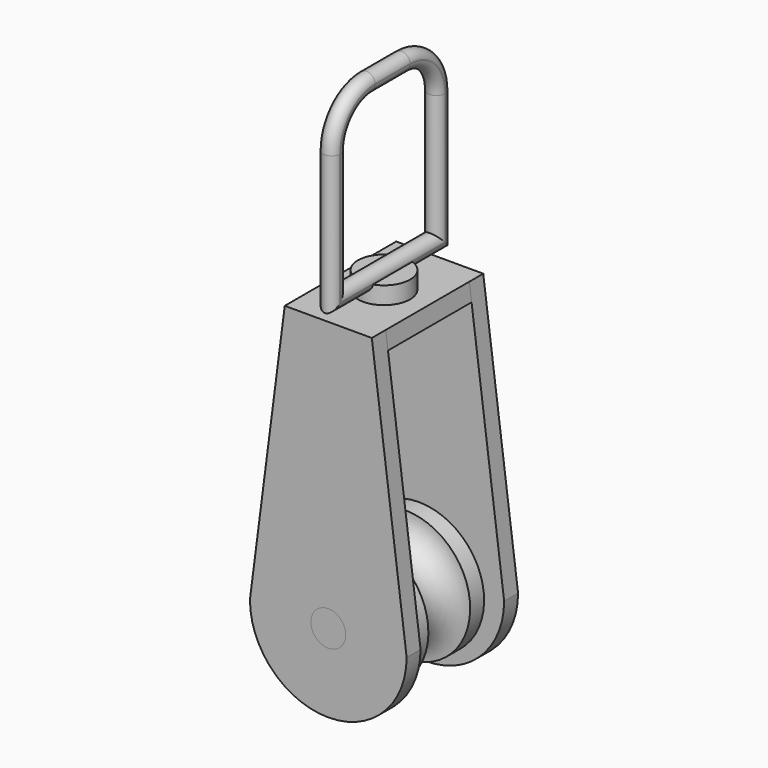
from build123d import *

# Parameters (mm, degrees)
F2_R           = 2
F3_DEPTH       = 13
F3_DEPTH_BACK  = 3
F4_R           = 7.5
F4_R_2         = 2
F5_DEPTH       = 2
F8_DEPTH       = 14
F9_R           = 3
F10_DEPTH      = 2
F10_DEPTH_BACK = 3


with BuildPart() as f1:
    # F0 (on Right) → F1 (revolve)
    with BuildSketch(Plane.YZ):
        with BuildLine():
            Line((-5, 0), (0, 0))
            Line((0, 0), (5, 0))
            Line((5, 0), (5, 7.5))
            Line((5, 7.5), (3, 7.5))
            ThreePointArc((3, 7.5), (0, 4.5), (-3, 7.5))
            Line((-3, 7.5), (-5, 7.5))
            Line((-5, 7.5), (-5, 0))
        make_face()
    revolve(axis=Axis((0, -2.5, 0), (0, -1, 0)))

    # F2 (on face) → F3 (join, two sides)
    with BuildSketch(Plane(origin=(0, 5, 0), x_dir=(-1, 0, 0), z_dir=(0, 1, 0))) as f3_sk:
        Circle(F2_R)
    extrude(amount=-F3_DEPTH)
    extrude(f3_sk.sketch, amount=F3_DEPTH_BACK)


with BuildPart() as f5:
    # F4 (on face) → F5 (new body)
    with BuildSketch(Plane(origin=(0, 8, 0), x_dir=(-1, 0, 0), z_dir=(0, 1, 0))):
        with BuildLine():
            Line((-5, 31), (-9, 0))
            ThreePointArc((-9, 0), (0, -9), (9, 0))
            Line((9, 0), (5, 31))
            Line((5, 31), (0, 31))
            Line((0, 31), (-5, 31))
        make_face()
        Circle(F4_R, mode=Mode.SUBTRACT)
        Circle(F4_R)
        Circle(F4_R_2, mode=Mode.SUBTRACT)
    extrude(amount=-F5_DEPTH)


with BuildPart() as f6_1:
    # F6: instance of F5
    add(f5.part.mirror(Plane.XZ))


with BuildPart() as f5_1:
    add(f5.part)

    add(f6_1.part)  # F8 merges F6_1
    # F7 (on face) → F8 (join, through all)
    with BuildSketch(Plane(origin=(0, 8, 0), x_dir=(-1, 0, 0), z_dir=(0, 1, 0))):
        Polygon((5, 31), (-5, 31), (-5.2580645161, 29), (0, 29), (5.2580645161, 29), align=None)
    extrude(amount=-F8_DEPTH)

    # F9 (on face) → F10 (join, two sides)
    with BuildSketch(Plane.XY.offset(31)) as f10_sk:
        Circle(F9_R)
    extrude(amount=F10_DEPTH)
    extrude(f10_sk.sketch, amount=-F10_DEPTH_BACK)

    # F13: sweep along a path in F12
    with BuildLine(Plane.YZ) as f13_path:
        Line((0, 33.1), (7.5, 33.1))
        Line((7.5, 33.1), (7.5, 48.1))
        ThreePointArc((7.5, 48.1), (6.0355339059, 51.6355339059), (2.5, 53.1))
        Line((2.5, 53.1), (-2.5, 53.1))
        ThreePointArc((-2.5, 53.1), (-6.0355339059, 51.6355339059), (-7.5, 48.1))
        Line((-7.5, 48.1), (-7.5, 33.1))
        Line((-7.5, 33.1), (0, 33.1))
    # F11 (on Front) → F13 (sweep)
    with BuildSketch(Plane.XZ):
        with BuildLine():
            Line((0.9949874371, 33), (-0.9949874371, 33))
            ThreePointArc((-0.9949874371, 33), (0, 32.1), (0.9949874371, 33))
        make_face()
        with BuildLine():
            ThreePointArc((1, 33.1), (-0.0500627751, 34.0987460731), (-0.9949874371, 33))
            Line((-0.9949874371, 33), (0.9949874371, 33))
            ThreePointArc((0.9949874371, 33), (0.9987460731, 33.0499372249), (1, 33.1))
        make_face()
    sweep(path=f13_path.line, transition=Transition.RIGHT)


solid = Compound([f1.part, f5_1.part])
